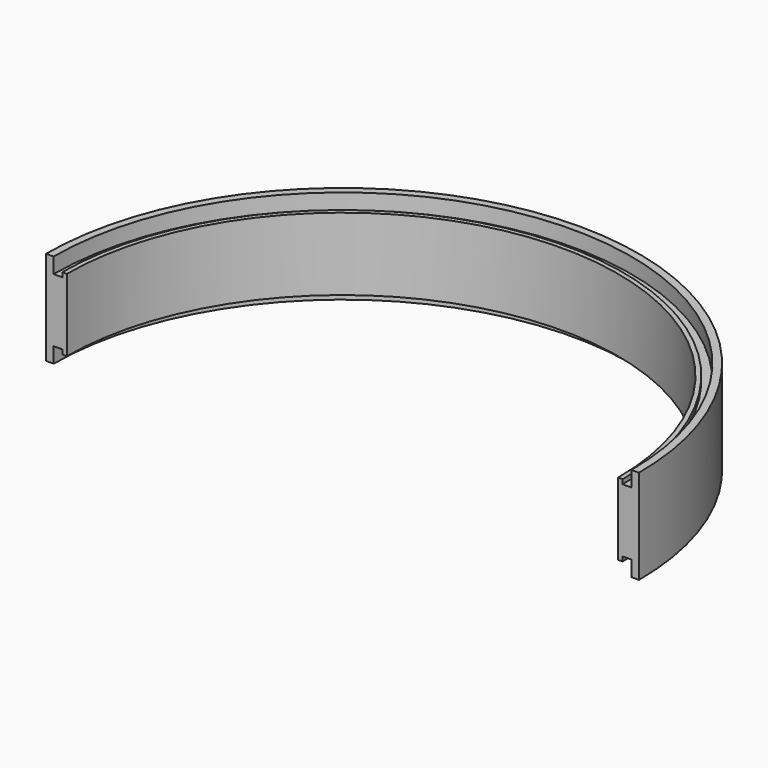
from build123d import *

# Parameters (mm, degrees)
F1_DEPTH = 25
F4_DEPTH = 16.8
F6_DEPTH = 1.2
F8_DEPTH = 1.2


with BuildPart() as f1:
    # F0 (on Top) → F1 (new body)
    with BuildSketch(Plane.XY):
        with BuildLine():
            ThreePointArc((-76.5, 0), (0, 76.5), (76.5, 0))
            Line((76.5, 0), (78.5, 0))
            ThreePointArc((78.5, 0), (0, 78.5), (-78.5, 0))
            Line((-78.5, 0), (-76.5, 0))
        make_face()
    extrude(amount=F1_DEPTH)

    # F3 (on offset) → F4 (join)
    with BuildSketch(Plane.XY.offset(4.1)):
        with BuildLine():
            Line((73, 0), (76.5, 0))
            ThreePointArc((76.5, 0), (0, 76.5), (-76.5, 0))
            Line((-76.5, 0), (-73, 0))
            ThreePointArc((-73, 0), (0, 73), (73, 0))
        make_face()
    extrude(amount=F4_DEPTH)

    # F5 (on face) → F6 (join)
    with BuildSketch(Plane.XY.offset(20.9)):
        with BuildLine():
            Line((73, 0), (74.2, 0))
            ThreePointArc((74.2, 0), (0, 74.2), (-74.2, 0))
            Line((-74.2, 0), (-73, 0))
            ThreePointArc((-73, 0), (0, 73), (73, 0))
        make_face()
    extrude(amount=F6_DEPTH)

    # F7 (on face) → F8 (join)
    with BuildSketch(Plane(origin=(0, 0, 4.1), x_dir=(1, 0, 0), z_dir=(0, 0, -1))):
        with BuildLine():
            ThreePointArc((-74.2, 0), (0, -74.2), (74.2, 0))
            Line((74.2, 0), (73, 0))
            ThreePointArc((73, 0), (0, -73), (-73, 0))
            Line((-73, 0), (-74.2, 0))
        make_face()
    extrude(amount=F8_DEPTH)


solid = f1.part
